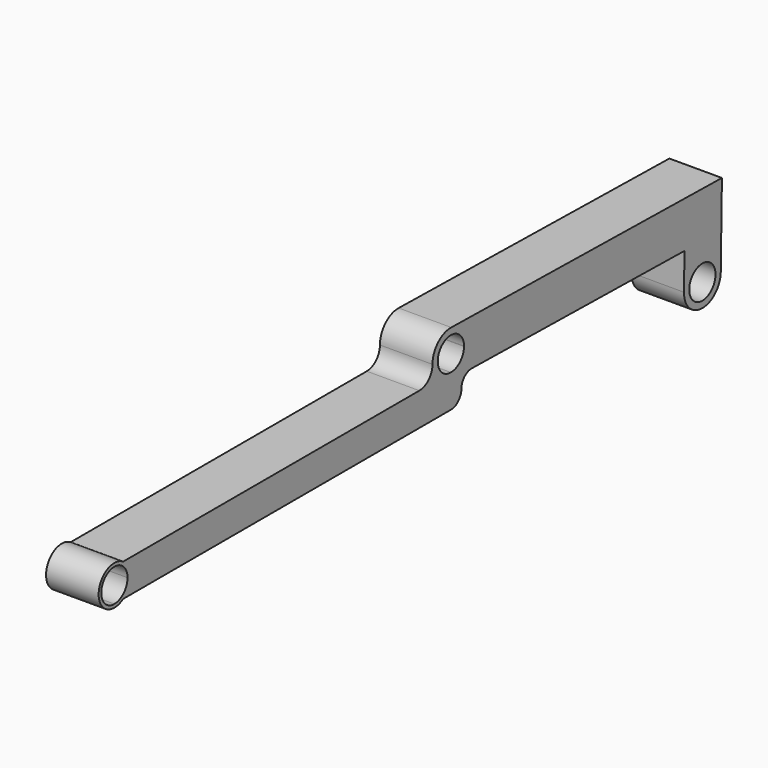
from build123d import *

# Parameters (mm, degrees)
F0_R     = 25
F1_DEPTH = 80


with BuildPart() as f1:
    # F0 (on Right) → F1 (new body)
    with BuildSketch(Plane.YZ):
        with BuildLine():
            Line((514.9215630055, -8.9879893152), (34.9946693305, -0.6108342253))
            ThreePointArc((34.9946693305, -0.6108342253), (24.6655973277, -24.8315989914), (0.3760957557, -34.9979792557))
            ThreePointArc((0.3760957557, -34.9979792557), (0.7357689155, -35.0079798205), (1.0952040016, -35.0244483385))
            Line((1.0952040016, -35.0244483385), (39.008660322, -35.6862301802))
            Line((39.008660322, -35.6862301802), (444.3213901193, -42.7609901951))
            Line((444.3213901193, -42.7609901951), (443.3615077652, -97.7526134287))
            ThreePointArc((443.3615077652, -97.7526134287), (477.7453428704, -133.3581169844), (513.3508464262, -98.9742818793))
            Line((513.3508464262, -98.9742818793), (514.9215630055, -8.9879893152))
        make_face()
        with Locations((478.3561770957, -98.363447654)):
            Circle(F0_R, mode=Mode.SUBTRACT)
        with BuildLine():
            ThreePointArc((35, 0), (34.9986673072, -0.3054287424), (34.9946693305, -0.6108342253))
            Line((34.9946693305, -0.6108342253), (514.9215630055, -8.9879893152))
            Line((514.9215630055, -8.9879893152), (515.5323972308, 26.0066800153))
            Line((515.5323972308, 26.0066800153), (0.6108342253, 34.9946693305))
            ThreePointArc((0.6108342253, 34.9946693305), (24.9637657204, 24.5318242505), (35, 0))
        make_face()
        with BuildLine():
            ThreePointArc((24.9961923789, -0.4363101609), (17.5227316075, -17.8312612289), (0, -25))
            Line((0, -25), (-24.4948974278, -25))
            ThreePointArc((-24.4948974278, -25), (-13.5110249136, -32.2870284446), (-0.6108342253, -34.9946693305))
            ThreePointArc((-0.6108342253, -34.9946693305), (-0.4934677657, -34.9965211066), (-0.3760957557, -34.9979792557))
            ThreePointArc((-0.3760957557, -34.9979792557), (0, -34.9944432379), (0.3760957557, -34.9979792557))
            ThreePointArc((0.3760957557, -34.9979792557), (24.6655973277, -24.8315989914), (34.9946693305, -0.6108342253))
            Line((34.9946693305, -0.6108342253), (24.9961923789, -0.4363101609))
        make_face()
        with BuildLine():
            ThreePointArc((0, -25), (-17.6776695297, 17.6776695297), (25, 0))
            ThreePointArc((25, 0), (24.9990480766, -0.2181633875), (24.9961923789, -0.4363101609))
            Line((24.9961923789, -0.4363101609), (34.9946693305, -0.6108342253))
            ThreePointArc((34.9946693305, -0.6108342253), (34.9986673072, -0.3054287424), (35, 0))
            ThreePointArc((35, 0), (24.9637657204, 24.5318242505), (0.6108342253, 34.9946693305))
            ThreePointArc((0.6108342253, 34.9946693305), (-24.5318242505, 24.9637657204), (-35, 0))
            ThreePointArc((-35, 0), (-32.2670219417, -13.5587350078), (-24.4948974278, -25))
            Line((-24.4948974278, -25), (0, -25))
        make_face()
        with BuildLine():
            ThreePointArc((0, -25), (-17.6776695297, 17.6776695297), (25, 0))
            ThreePointArc((25, 0), (24.9990480766, -0.2181633875), (24.9961923789, -0.4363101609))
            Line((24.9961923789, -0.4363101609), (34.9946693305, -0.6108342253))
            ThreePointArc((34.9946693305, -0.6108342253), (34.9986673072, -0.3054287424), (35, 0))
            ThreePointArc((35, 0), (24.9637657204, 24.5318242505), (0.6108342253, 34.9946693305))
            ThreePointArc((0.6108342253, 34.9946693305), (-24.5318242505, 24.9637657204), (-35, 0))
            ThreePointArc((-35, 0), (-32.2670219417, -13.5587350078), (-24.4948974278, -25))
            Line((-24.4948974278, -25), (0, -25))
        make_face()
        with BuildLine():
            ThreePointArc((-0.6108342253, -34.9946693305), (-13.5110249136, -32.2870284446), (-24.4948974278, -25))
            Line((-24.4948974278, -25), (-60, -25))
            Line((-60, -25), (-623.5117081128, -25))
            ThreePointArc((-623.5117081128, -25), (-613.6612070325, -35.8135916236), (-610.0951047769, -49.999819101))
            ThreePointArc((-610.0951047769, -49.999819101), (-613.6612844084, -64.1861907556), (-623.5119808251, -74.999819101))
            Line((-623.5119808251, -74.999819101), (-0.0951047769, -74.999819101))
            Line((-0.0951047769, -74.999819101), (-0.6107169229, -35.0037684849))
            Line((-0.6107169229, -35.0037684849), (-0.6108342253, -34.9946693305))
        make_face()
        with BuildLine():
            Line((-60, -25), (-24.4948974278, -25))
            ThreePointArc((-24.4948974278, -25), (-32.2670219417, -13.5587350078), (-35, 0))
            ThreePointArc((-35, 0), (-42.3223304703, -17.6776695297), (-60, -25))
        make_face()
        with BuildLine():
            Line((514.9215630055, -8.9879893152), (34.9946693305, -0.6108342253))
            ThreePointArc((34.9946693305, -0.6108342253), (24.6655973277, -24.8315989914), (0.3760957557, -34.9979792557))
            ThreePointArc((0.3760957557, -34.9979792557), (0.7357689155, -35.0079798205), (1.0952040016, -35.0244483385))
            Line((1.0952040016, -35.0244483385), (39.008660322, -35.6862301802))
            Line((39.008660322, -35.6862301802), (444.3213901193, -42.7609901951))
            Line((444.3213901193, -42.7609901951), (443.3615077652, -97.7526134287))
            ThreePointArc((443.3615077652, -97.7526134287), (477.7453428704, -133.3581169844), (513.3508464262, -98.9742818793))
            Line((513.3508464262, -98.9742818793), (514.9215630055, -8.9879893152))
        make_face()
        with Locations((478.3561770957, -98.363447654)):
            Circle(F0_R, mode=Mode.SUBTRACT)
        with BuildLine():
            ThreePointArc((35, 0), (34.9986673072, -0.3054287424), (34.9946693305, -0.6108342253))
            Line((34.9946693305, -0.6108342253), (514.9215630055, -8.9879893152))
            Line((514.9215630055, -8.9879893152), (515.5323972308, 26.0066800153))
            Line((515.5323972308, 26.0066800153), (0.6108342253, 34.9946693305))
            ThreePointArc((0.6108342253, 34.9946693305), (24.9637657204, 24.5318242505), (35, 0))
        make_face()
        with BuildLine():
            ThreePointArc((-610.0951047769, -49.999819101), (-613.6612070325, -35.8135916236), (-623.5117081128, -25))
            Line((-623.5117081128, -25), (-640, -25))
            ThreePointArc((-640, -25), (-622.3838425488, -32.3558062272), (-615.0951047769, -49.999819101))
            ThreePointArc((-615.0951047769, -49.999819101), (-622.4174352472, -67.6774886306), (-640.0951047769, -74.999819101))
            Line((-640.0951047769, -74.999819101), (-623.5119808251, -74.999819101))
            ThreePointArc((-623.5119808251, -74.999819101), (-613.6612844084, -64.1861907556), (-610.0951047769, -49.999819101))
        make_face()
        with BuildLine():
            Line((-640, -25), (-623.5117081128, -25))
            ThreePointArc((-623.5117081128, -25), (-670.0951047765, -49.999655473), (-623.5119808251, -74.999819101))
            Line((-623.5119808251, -74.999819101), (-640.0951047769, -74.999819101))
            ThreePointArc((-640.0951047769, -74.999819101), (-665.0950595521, -49.9522666265), (-640, -25))
        make_face()
        with BuildLine():
            Line((1.0952040016, -35.0244483385), (-0.3974963091, -34.9983931577))
            ThreePointArc((-0.3974963091, -34.9983931577), (-0.5041137806, -35.0007966248), (-0.6107169229, -35.0037684849))
            Line((-0.6107169229, -35.0037684849), (-0.0951047769, -74.999819101))
            ThreePointArc((-0.0951047769, -74.999819101), (14.1104515348, -69.1749451733), (20.0028009778, -54.9972442157))
            ThreePointArc((20.0028009778, -54.9972442157), (14.5261693958, -41.2457915782), (1.0952040016, -35.0244483385))
        make_face()
        with BuildLine():
            Line((39.008660322, -35.6862301802), (1.0952040016, -35.0244483385))
            ThreePointArc((1.0952040016, -35.0244483385), (14.5261693958, -41.2457915782), (20.0028009778, -54.9972442157))
            ThreePointArc((20.0028009778, -54.9972442157), (25.6016517806, -41.4993509969), (39.008660322, -35.6862301802))
        make_face()
        with BuildLine():
            Line((1.0952040016, -35.0244483385), (-0.3974963091, -34.9983931577))
            ThreePointArc((-0.3974963091, -34.9983931577), (-0.5041137806, -35.0007966248), (-0.6107169229, -35.0037684849))
            Line((-0.6107169229, -35.0037684849), (-0.0951047769, -74.999819101))
            ThreePointArc((-0.0951047769, -74.999819101), (14.1104515348, -69.1749451733), (20.0028009778, -54.9972442157))
            ThreePointArc((20.0028009778, -54.9972442157), (14.5261693958, -41.2457915782), (1.0952040016, -35.0244483385))
        make_face()
        with BuildLine():
            Line((39.008660322, -35.6862301802), (1.0952040016, -35.0244483385))
            ThreePointArc((1.0952040016, -35.0244483385), (14.5261693958, -41.2457915782), (20.0028009778, -54.9972442157))
            ThreePointArc((20.0028009778, -54.9972442157), (25.6016517806, -41.4993509969), (39.008660322, -35.6862301802))
        make_face()
        with BuildLine():
            Line((-60, -25), (-24.4948974278, -25))
            ThreePointArc((-24.4948974278, -25), (-32.2670219417, -13.5587350078), (-35, 0))
            ThreePointArc((-35, 0), (-42.3223304703, -17.6776695297), (-60, -25))
        make_face()
        with BuildLine():
            ThreePointArc((-0.6108342253, -34.9946693305), (-13.5110249136, -32.2870284446), (-24.4948974278, -25))
            Line((-24.4948974278, -25), (-60, -25))
            Line((-60, -25), (-623.5117081128, -25))
            ThreePointArc((-623.5117081128, -25), (-613.6612070325, -35.8135916236), (-610.0951047769, -49.999819101))
            ThreePointArc((-610.0951047769, -49.999819101), (-613.6612844084, -64.1861907556), (-623.5119808251, -74.999819101))
            Line((-623.5119808251, -74.999819101), (-0.0951047769, -74.999819101))
            Line((-0.0951047769, -74.999819101), (-0.6107169229, -35.0037684849))
            Line((-0.6107169229, -35.0037684849), (-0.6108342253, -34.9946693305))
        make_face()
        with BuildLine():
            ThreePointArc((-610.0951047769, -49.999819101), (-613.6612070325, -35.8135916236), (-623.5117081128, -25))
            Line((-623.5117081128, -25), (-640, -25))
            ThreePointArc((-640, -25), (-622.3838425488, -32.3558062272), (-615.0951047769, -49.999819101))
            ThreePointArc((-615.0951047769, -49.999819101), (-622.4174352472, -67.6774886306), (-640.0951047769, -74.999819101))
            Line((-640.0951047769, -74.999819101), (-623.5119808251, -74.999819101))
            ThreePointArc((-623.5119808251, -74.999819101), (-613.6612844084, -64.1861907556), (-610.0951047769, -49.999819101))
        make_face()
        with BuildLine():
            Line((-640, -25), (-623.5117081128, -25))
            ThreePointArc((-623.5117081128, -25), (-670.0951047765, -49.999655473), (-623.5119808251, -74.999819101))
            Line((-623.5119808251, -74.999819101), (-640.0951047769, -74.999819101))
            ThreePointArc((-640.0951047769, -74.999819101), (-665.0950595521, -49.9522666265), (-640, -25))
        make_face()
    extrude(amount=-F1_DEPTH)


solid = f1.part
